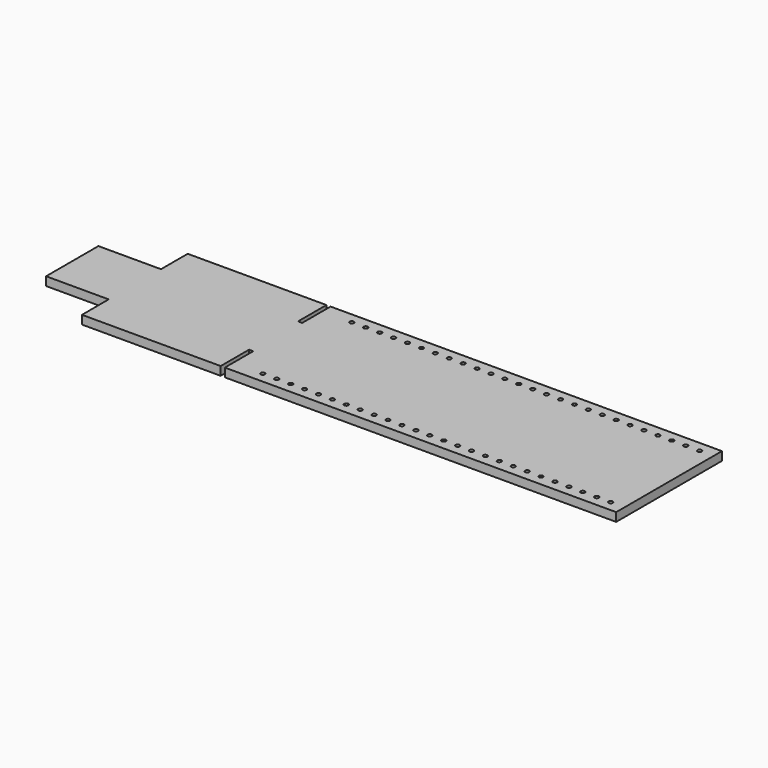
from build123d import *

# Parameters (mm, degrees)
F1_DEPTH = 1.5748
F2_R     = 0.381
F3_DEPTH = 1.5758


with BuildPart() as f1:
    # F0 (on Top) → F1 (new body)
    with BuildSketch(Plane.XY):
        Polygon((0, 6.096), (0, 0), (25.3238, 0), (25.3238, 6.477), (26.0858, 6.477), (26.0858, 0), (97.536, 0), (97.536, 24.13), (26.0858, 24.13), (26.0858, 17.653), (25.3238, 17.653), (25.3238, 24.13), (0, 24.13), (0, 18.034), (-11.43, 18.034), (-11.43, 6.096), align=None)
    extrude(amount=F1_DEPTH)

    # F2 (on face) → F3 (cut, through all)
    with BuildSketch(Plane.XY.offset(1.5748)):
        with Locations((31.496, 1.905)):
            Circle(F2_R)
        with Locations((31.496, 22.225)):
            Circle(F2_R)
        with Locations((34.036, 1.905)):
            Circle(F2_R)
        with Locations((34.036, 22.225)):
            Circle(F2_R)
        with Locations((36.576, 1.905)):
            Circle(F2_R)
        with Locations((36.576, 22.225)):
            Circle(F2_R)
        with Locations((39.116, 1.905)):
            Circle(F2_R)
        with Locations((39.116, 22.225)):
            Circle(F2_R)
        with Locations((41.656, 1.905)):
            Circle(F2_R)
        with Locations((41.656, 22.225)):
            Circle(F2_R)
        with Locations((44.196, 1.905)):
            Circle(F2_R)
        with Locations((44.196, 22.225)):
            Circle(F2_R)
        with Locations((46.736, 1.905)):
            Circle(F2_R)
        with Locations((46.736, 22.225)):
            Circle(F2_R)
        with Locations((49.276, 1.905)):
            Circle(F2_R)
        with Locations((49.276, 22.225)):
            Circle(F2_R)
        with Locations((51.816, 1.905)):
            Circle(F2_R)
        with Locations((51.816, 22.225)):
            Circle(F2_R)
        with Locations((54.356, 1.905)):
            Circle(F2_R)
        with Locations((54.356, 22.225)):
            Circle(F2_R)
        with Locations((56.896, 1.905)):
            Circle(F2_R)
        with Locations((56.896, 22.225)):
            Circle(F2_R)
        with Locations((59.436, 1.905)):
            Circle(F2_R)
        with Locations((59.436, 22.225)):
            Circle(F2_R)
        with Locations((61.976, 1.905)):
            Circle(F2_R)
        with Locations((61.976, 22.225)):
            Circle(F2_R)
        with Locations((64.516, 1.905)):
            Circle(F2_R)
        with Locations((64.516, 22.225)):
            Circle(F2_R)
        with Locations((67.056, 1.905)):
            Circle(F2_R)
        with Locations((67.056, 22.225)):
            Circle(F2_R)
        with Locations((69.596, 1.905)):
            Circle(F2_R)
        with Locations((69.596, 22.225)):
            Circle(F2_R)
        with Locations((72.136, 1.905)):
            Circle(F2_R)
        with Locations((72.136, 22.225)):
            Circle(F2_R)
        with Locations((74.676, 1.905)):
            Circle(F2_R)
        with Locations((74.676, 22.225)):
            Circle(F2_R)
        with Locations((77.216, 1.905)):
            Circle(F2_R)
        with Locations((77.216, 22.225)):
            Circle(F2_R)
        with Locations((79.756, 1.905)):
            Circle(F2_R)
        with Locations((79.756, 22.225)):
            Circle(F2_R)
        with Locations((82.296, 1.905)):
            Circle(F2_R)
        with Locations((82.296, 22.225)):
            Circle(F2_R)
        with Locations((84.836, 1.905)):
            Circle(F2_R)
        with Locations((84.836, 22.225)):
            Circle(F2_R)
        with Locations((87.376, 1.905)):
            Circle(F2_R)
        with Locations((87.376, 22.225)):
            Circle(F2_R)
        with Locations((89.916, 1.905)):
            Circle(F2_R)
        with Locations((89.916, 22.225)):
            Circle(F2_R)
        with Locations((92.456, 1.905)):
            Circle(F2_R)
        with Locations((92.456, 22.225)):
            Circle(F2_R)
        with Locations((94.996, 1.905)):
            Circle(F2_R)
        with Locations((94.996, 22.225)):
            Circle(F2_R)
    extrude(amount=-F3_DEPTH, mode=Mode.SUBTRACT)


solid = f1.part
